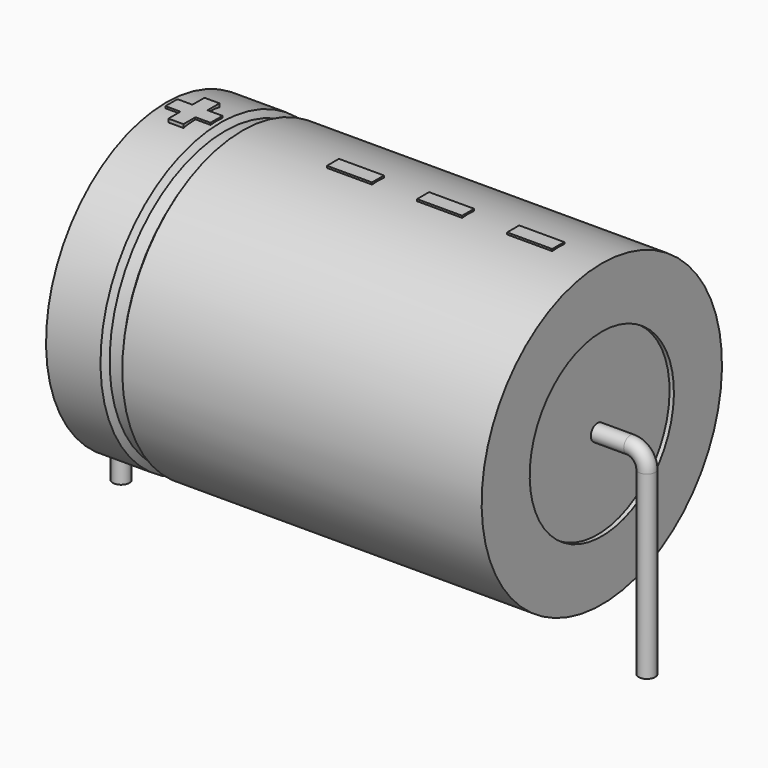
from build123d import *

# Parameters (mm, degrees)
SKETCH_R    = 0.55
SKETCH004_W = 3
SKETCH004_H = 1
PAD_DEPTH   = 10.1


with BuildPart() as sweep_body:
    # Sweep: sweep along a path in Sketch001
    with BuildLine(Plane.XZ) as sweep_path:
        Line((0, -3), (0, 9))
        ThreePointArc((0, 9), (0.322187, 9.777822), (1.100013, 10.1))
        Line((1.100013, 10.1), (33.9, 10.1))
        ThreePointArc((33.9, 10.1), (34.677817, 9.777817), (35, 9))
        Line((35, 9), (35, -3))
    # Sketch → Sweep (sweep)
    with BuildSketch(Plane.XY.offset(-2)):
        Circle(SKETCH_R)
    sweep(path=sweep_path.line)


with BuildPart() as revolution:
    # Sketch002 → Revolution (revolve)
    with BuildSketch(Plane.XZ):
        Polygon((3, 20.1), (3, 16.1), (32, 16.1), (32, 20.1), (8.075, 20.1), (7.785, 19.7), (6.915, 19.7), (6.625, 20.1), align=None)
    revolve(axis=Axis((6.97588, 0, 10.1), (1, 0, 0)))


with BuildPart() as revolution001:
    # Sketch003 → Revolution001 (revolve)
    with BuildSketch(Plane.XZ):
        Polygon((3.29, 19.7), (4.74, 19.7), (4.74, 11.1), (30.26, 11.1), (30.26, 19.7), (31.71, 19.7), (31.71, 10.1), (3.29, 10.1), align=None)
    revolve(axis=Axis((6.97588, 0, 10.1), (1, 0, 0)))


with BuildPart() as pad:
    # Sketch004 → Pad (new body)
    with BuildSketch(Plane.XY.offset(10.1)):
        with Locations((27.6, 0)):
            Rectangle(SKETCH004_W, SKETCH004_H)
        with Locations((21.6, 0)):
            Rectangle(SKETCH004_W, SKETCH004_H)
        with Locations((15.6, 0)):
            Rectangle(SKETCH004_W, SKETCH004_H)
        Polygon((4.348, 0.5), (3.348, 0.5), (3.348, -0.5), (4.348, -0.5), (4.348, -1.5), (5.348, -1.5), (5.348, -0.5), (6.348, -0.5), (6.348, 0.5), (5.348, 0.5), (5.348, 1.5), (4.348, 1.5), align=None)
    extrude(amount=PAD_DEPTH)


solid = Compound([sweep_body.part, revolution.part, revolution001.part, pad.part])
